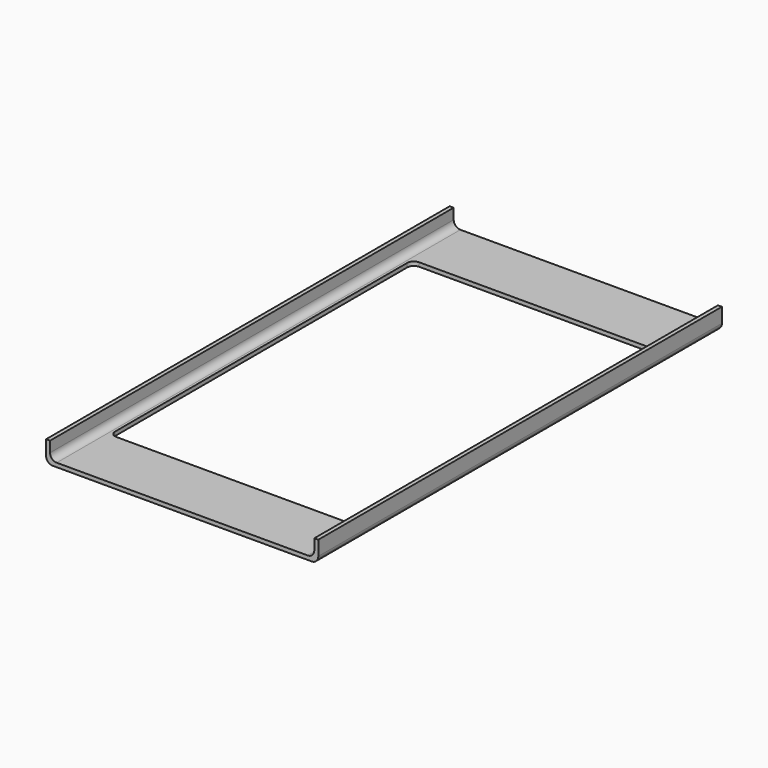
from build123d import *

# Parameters (mm, degrees)
F1_DEPTH = 380
F2_W     = 185
F2_H     = 285
F3_DEPTH = 3
F4_R     = 5
F5_R     = 5
F6_R     = 5


with BuildPart() as f1:
    # F0 (on Front) → F1 (new body)
    with BuildSketch(Plane.XZ):
        Polygon((-102.5, 0), (-102.5, -16), (102.5, -16), (102.5, 0), (99.5, 0), (99.5, -13), (-99.5, -13), (-99.5, 0), align=None)
    extrude(amount=F1_DEPTH)

    # F2 (on face) → F3 (cut)
    with BuildSketch(Plane.XY.offset(-13)):
        with Locations((0, -190)):
            Rectangle(F2_W, F2_H)
    extrude(amount=-F3_DEPTH, mode=Mode.SUBTRACT)

    # F4
    f4_edges = [f1.edges().sort_by_distance(p)[0] for p in [
        (-92.5, -47.5, -14.5),
        (92.5, -47.5, -14.5),
        (-92.5, -332.5, -14.5),
        (92.5, -332.5, -14.5),
    ]]
    fillet(f4_edges, radius=F4_R)

    # F5
    f5_edges = [f1.edges().sort_by_distance(p)[0] for p in [
        (102.5, -190, -16),
        (-102.5, -190, -16),
    ]]
    fillet(f5_edges, radius=F5_R)

    # F6
    f6_edges = [f1.edges().sort_by_distance(p)[0] for p in [
        (-99.5, -190, -13),
        (99.5, -190, -13),
    ]]
    fillet(f6_edges, radius=F6_R)


solid = f1.part
